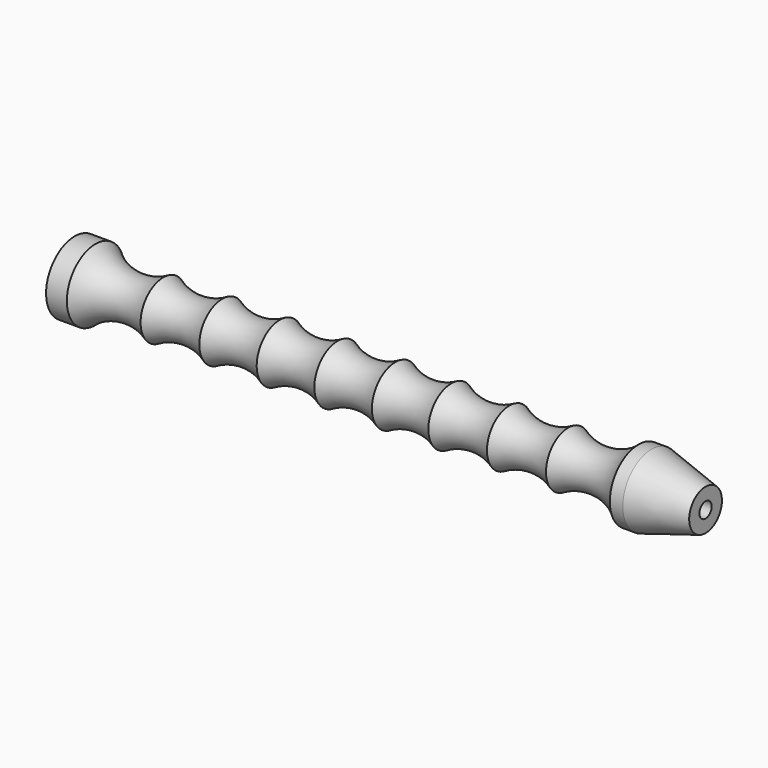
from build123d import *

# Parameters (mm, degrees)
F2_R     = 2
F3_DEPTH = 165


with BuildPart() as f1:
    # F0 (on Front) → F1 (revolve)
    with BuildSketch(Plane.XZ):
        with BuildLine():
            Line((-69.78324, 9.334004), (-75.215772, 9.334004))
            Line((-75.215772, 9.334004), (-75.215772, 0))
            Line((-75.215772, 0), (75.215764, 0))
            Line((75.215764, 0), (75.397015, 0))
            Line((75.397015, 0), (89.533947, 0))
            Line((89.533947, 0), (89.533947, 5.346663))
            Line((89.533947, 5.346663), (75.397015, 9.334004))
            Line((75.397015, 9.334004), (72.006051, 9.334004))
            ThreePointArc((72.006051, 9.334004), (63.177973, 5.23042), (53.64913, 7.224292))
            ThreePointArc((53.64913, 7.224292), (45.965843, 5.219173), (38.308473, 7.321098))
            ThreePointArc((38.308473, 7.321098), (30.699517, 5.374494), (23.134824, 7.486581))
            ThreePointArc((23.134824, 7.486581), (15.799028, 5.633031), (8.495979, 7.611671))
            ThreePointArc((8.495979, 7.611671), (0.965777, 5.555004), (-6.579358, 7.556193))
            ThreePointArc((-6.579358, 7.556193), (-14.11524, 5.51843), (-21.658356, 7.529248))
            ThreePointArc((-21.658356, 7.529248), (-29.160897, 5.498259), (-36.677834, 7.475301))
            ThreePointArc((-36.677834, 7.475301), (-44.367612, 5.349562), (-52.076367, 7.405419))
            ThreePointArc((-52.076367, 7.405419), (-61.242796, 5.49604), (-69.78324, 9.334004))
        make_face()
    revolve(axis=Axis((-4e-06, 0, 0), (1, 0, 0)))

    # F2 (on face) → F3 (cut)
    with BuildSketch(Plane.YZ.offset(89.533947)):
        Circle(F2_R)
    extrude(amount=-F3_DEPTH, mode=Mode.SUBTRACT)


solid = f1.part
